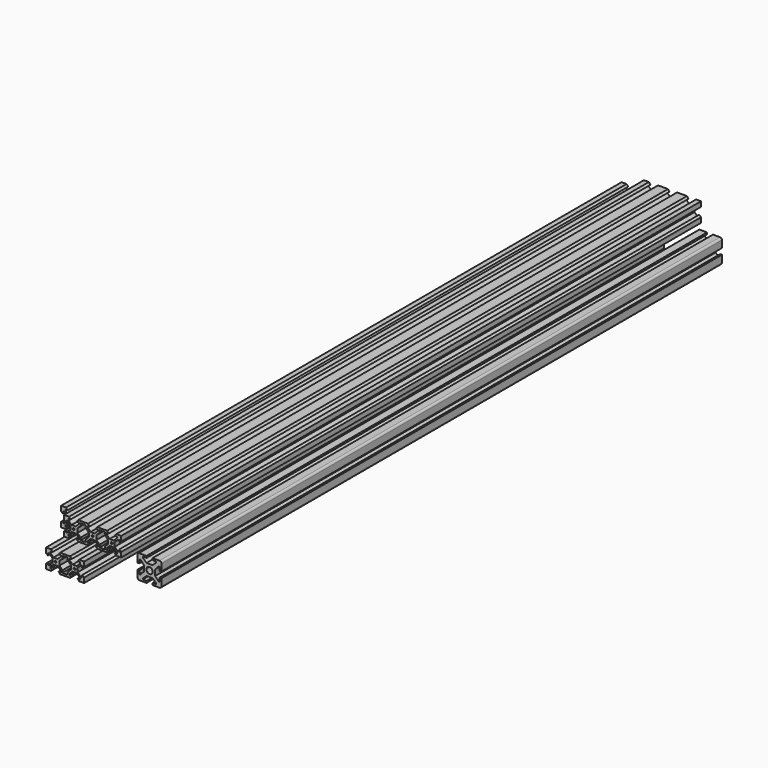
from build123d import *

# Parameters (mm, degrees)
F1_DEPTH = 736.6
F2_R     = 2
F3_R     = 0.95
F4_DEPTH = 736.6
F5_R     = 0.95
F6_DEPTH = 762
F7_R     = 0.95
F8_DEPTH = 762


with BuildPart() as f1:
    # F0 (on Front) → F1 (new body)
    with BuildSketch(Plane.XZ):
        Polygon((12.5, 3.109211), (12.5, 12.509211), (3.1, 12.509211), (3.1, 10.629211), (7.063925, 10.629211), (7.063925, 9.629211), (3.1, 6.01164), (0, 6.01164), (-3.1, 6.01164), (-7.063925, 9.629211), (-7.063925, 10.629211), (-3.1, 10.629211), (-3.1, 12.509211), (-12.5, 12.509211), (-12.5, 3.109211), (-10.62, 3.109211), (-10.62, 7.073137), (-9.62, 7.073137), (-6.002428, 3.109211), (-6.002428, 0.009211), (-6.002428, -3.090789), (-9.62, -7.054714), (-10.62, -7.054714), (-10.62, -3.090789), (-12.5, -3.090789), (-12.5, -12.490789), (-3.1, -12.490789), (-3.1, -10.610789), (-7.063925, -10.610789), (-7.063925, -9.610789), (-3.1, -5.993217), (0, -5.993217), (3.1, -5.993217), (7.063925, -9.610789), (7.063925, -10.610789), (3.1, -10.610789), (3.1, -12.490789), (12.5, -12.490789), (12.5, -3.090789), (10.62, -3.090789), (10.62, -7.054714), (9.62, -7.054714), (6.002428, -3.090789), (6.002428, 0.009211), (6.002428, 3.109211), (9.62, 7.073137), (10.62, 7.073137), (10.62, 3.109211), align=None)
        with BuildLine():
            ThreePointArc((2.333452, 2.342664), (3.048802, 1.272067), (3.3, 0.009211))
            ThreePointArc((3.3, 0.009211), (3.048802, -1.253644), (2.333452, -2.324241))
            ThreePointArc((2.333452, -2.324241), (1.262855, -3.039591), (0, -3.290789))
            ThreePointArc((0, -3.290789), (-1.262855, -3.039591), (-2.333452, -2.324241))
            ThreePointArc((-2.333452, -2.324241), (-3.048802, -1.253644), (-3.3, 0.009211))
            ThreePointArc((-3.3, 0.009211), (-3.048802, 1.272067), (-2.333452, 2.342664))
            ThreePointArc((-2.333452, 2.342664), (-1.262855, 3.058014), (0, 3.309211))
            ThreePointArc((0, 3.309211), (1.262855, 3.058014), (2.333452, 2.342664))
        make_face(mode=Mode.SUBTRACT)
    extrude(amount=F1_DEPTH)

    # F2
    f2_edges = [f1.edges().sort_by_distance(p)[0] for p in [
        (12.5, -368.3, -12.490789),
        (12.5, -368.3, 12.509211),
        (-12.5, -368.3, -12.490789),
        (-12.5, -368.3, 12.509211),
    ]]
    fillet(f2_edges, radius=F2_R)


with BuildPart() as f4:
    # F3 (on Front) → F4 (new body)
    with BuildSketch(Plane.XZ):
        Polygon((-52.982279, 24.560031), (-52.982279, 29.760031), (-58.182279, 29.76013), (-59.882317, 27.760163), (-57.535791, 27.760118), (-57.53582, 26.2248), (-60.777906, 22.982776), (-65.186911, 22.982861), (-68.428872, 26.225009), (-68.428843, 27.760327), (-66.082317, 27.760282), (-67.782279, 29.760314), (-72.982279, 29.760414), (-72.982478, 24.560414), (-70.982543, 22.860337), (-70.982453, 25.206863), (-69.447135, 25.206805), (-66.205174, 21.964656), (-66.205174, 17.555405), (-69.447135, 14.313257), (-70.982453, 14.313198), (-70.982543, 16.659724), (-72.982478, 14.959647), (-72.982279, 9.759647), (-67.782279, 9.759747), (-66.082317, 11.759779), (-68.428843, 11.759734), (-68.428872, 13.295052), (-65.186911, 16.5372), (-60.777906, 16.537285), (-57.53582, 13.295261), (-57.535791, 11.759943), (-59.882317, 11.759898), (-58.182279, 9.759931), (-52.982279, 9.760031), (-52.982279, 14.960031), (-54.982279, 16.660031), (-54.982279, 14.313505), (-56.517596, 14.313505), (-59.759682, 17.555528), (-59.759682, 21.964533), (-56.517596, 25.206557), (-54.982279, 25.206557), (-54.982279, 22.860031), align=None)
        with Locations((-62.982279, 19.760222)):
            Circle(F3_R, mode=Mode.SUBTRACT)
    extrude(amount=F4_DEPTH)


with BuildPart() as f6:
    # F5 (on Front) → F6 (new body)
    with BuildSketch(Plane.XZ):
        Polygon((-55.323982, 0.933651), (-52.977456, 0.933606), (-52.977486, -0.601712), (-56.219572, -3.843735), (-60.628576, -3.843651), (-63.870537, -0.601503), (-63.870508, 0.933815), (-61.523982, 0.93377), (-63.223944, 2.933803), (-68.423944, 2.933903), (-68.424143, -2.266097), (-66.424208, -3.966174), (-66.424118, -1.619648), (-64.8888, -1.619707), (-61.646839, -4.861855), (-61.646839, -9.271107), (-64.8888, -12.513255), (-66.424118, -12.513314), (-66.424208, -10.166788), (-68.424143, -11.866865), (-68.423944, -17.066865), (-63.223944, -17.066765), (-61.523982, -15.066732), (-63.870508, -15.066777), (-63.870537, -13.531459), (-60.628576, -10.289311), (-56.219572, -10.289227), (-52.977486, -13.53125), (-52.977456, -15.066568), (-55.323982, -15.066613), (-53.623944, -17.066581), (-43.223944, -17.066581), (-41.523905, -15.066613), (-43.870431, -15.066568), (-43.870402, -13.53125), (-40.628316, -10.289227), (-36.219312, -10.289311), (-32.97735, -13.531459), (-32.977379, -15.066777), (-35.323905, -15.066732), (-33.623944, -17.066765), (-28.423944, -17.066865), (-28.423744, -11.866865), (-30.423679, -10.166788), (-30.423769, -12.513314), (-31.959087, -12.513255), (-35.201048, -9.271107), (-35.201048, -4.861855), (-31.959087, -1.619707), (-30.423769, -1.619648), (-30.423679, -3.966174), (-28.423744, -2.266097), (-28.423944, 2.933903), (-33.623944, 2.933803), (-35.323905, 0.93377), (-32.977379, 0.933815), (-32.97735, -0.601503), (-36.219312, -3.843651), (-40.628316, -3.843735), (-43.870402, -0.601712), (-43.870431, 0.933606), (-41.523905, 0.933651), (-43.223944, 2.933619), (-53.623944, 2.933619), align=None)
        Polygon((-54.41603, -4.861979), (-51.173944, -1.619955), (-51.173944, 0.933606), (-45.673944, 0.933606), (-45.673944, -1.619955), (-42.431858, -4.861979), (-42.431858, -9.270983), (-45.673944, -12.513007), (-45.673944, -15.066568), (-51.173944, -15.066568), (-51.173944, -12.513007), (-54.41603, -9.270983), align=None, mode=Mode.SUBTRACT)
        with Locations((-58.423944, -7.066289)):
            Circle(F5_R, mode=Mode.SUBTRACT)
        with Locations((-38.423944, -7.066289)):
            Circle(F5_R, mode=Mode.SUBTRACT)
    extrude(amount=F6_DEPTH)


with BuildPart() as f8:
    # F7 (on Front) → F8 (new body)
    with BuildSketch(Plane.XZ):
        Polygon((-31.371603, 17.261043), (-29.025077, 17.260998), (-29.025106, 15.72568), (-32.267192, 12.483656), (-34.471694, 12.483699), (-36.676196, 12.483656), (-39.918282, 15.72568), (-39.918312, 17.260998), (-37.571786, 17.261043), (-39.271824, 19.261011), (-49.671824, 19.261011), (-51.371863, 17.261043), (-49.025337, 17.260998), (-49.025366, 15.72568), (-52.267452, 12.483656), (-56.676456, 12.483741), (-59.918418, 15.725889), (-59.918389, 17.261207), (-57.571863, 17.261162), (-59.271824, 19.261195), (-64.471824, 19.261294), (-64.472024, 14.061294), (-62.472089, 12.361218), (-62.471999, 14.707744), (-60.936681, 14.707685), (-57.694719, 11.465537), (-57.694719, 7.056285), (-60.936681, 3.814137), (-62.471999, 3.814078), (-62.472089, 6.160604), (-64.472024, 4.460527), (-64.471824, -0.739473), (-59.271824, -0.739373), (-57.571863, 1.26066), (-59.918389, 1.260615), (-59.918418, 2.795932), (-56.676456, 6.038081), (-52.267452, 6.038165), (-49.025366, 2.796141), (-49.025337, 1.260823), (-51.371863, 1.260778), (-49.671824, -0.739189), (-39.271824, -0.739189), (-37.571786, 1.260778), (-39.918312, 1.260823), (-39.918282, 2.796141), (-36.676196, 6.038165), (-34.471694, 6.038123), (-32.267192, 6.038165), (-29.025106, 2.796141), (-29.025077, 1.260823), (-31.371603, 1.260778), (-29.671564, -0.739189), (-19.271564, -0.739189), (-17.571526, 1.260778), (-19.918052, 1.260823), (-19.918022, 2.796141), (-16.675936, 6.038165), (-12.266932, 6.038081), (-9.02497, 2.795932), (-9.025, 1.260615), (-11.371526, 1.26066), (-9.671564, -0.739373), (-4.471564, -0.739473), (-4.471365, 4.460527), (-6.4713, 6.160604), (-6.47139, 3.814078), (-8.006707, 3.814137), (-11.248669, 7.056285), (-11.248669, 11.465537), (-8.006707, 14.707685), (-6.47139, 14.707744), (-6.4713, 12.361218), (-4.471365, 14.061294), (-4.471564, 19.261294), (-9.671564, 19.261195), (-11.371526, 17.261162), (-9.025, 17.261207), (-9.02497, 15.725889), (-12.266932, 12.483741), (-16.675936, 12.483656), (-19.918022, 15.72568), (-19.918052, 17.260998), (-17.571526, 17.261043), (-19.271564, 19.261011), (-29.671564, 19.261011), align=None)
        Polygon((-38.471824, 7.056409), (-41.721824, 3.814385), (-41.721824, 1.260823), (-47.221824, 1.260823), (-47.221824, 3.814385), (-50.471824, 7.056409), (-50.471824, 11.465413), (-47.221824, 14.707437), (-47.221824, 17.260998), (-41.721824, 17.260998), (-41.721824, 14.707437), (-38.471824, 11.465413), align=None, mode=Mode.SUBTRACT)
        Polygon((-30.471564, 11.465413), (-27.221564, 14.707437), (-27.221564, 17.260998), (-21.721564, 17.260998), (-21.721564, 14.707437), (-18.471564, 11.465413), (-18.471564, 7.056409), (-21.721564, 3.814385), (-21.721564, 1.260823), (-27.221564, 1.260823), (-27.221564, 3.814385), (-30.471564, 7.056409), align=None, mode=Mode.SUBTRACT)
        with Locations((-54.471824, 9.261103)):
            Circle(F7_R, mode=Mode.SUBTRACT)
        with BuildLine():
            ThreePointArc((-34.471694, 8.311103), (-35.421694, 9.261103), (-34.471694, 10.211103))
            ThreePointArc((-34.471694, 10.211103), (-33.521694, 9.261103), (-34.471694, 8.311103))
        make_face(mode=Mode.SUBTRACT)
        with Locations((-14.471564, 9.261103)):
            Circle(F7_R, mode=Mode.SUBTRACT)
    extrude(amount=F8_DEPTH)


with BuildPart() as f1_1:
    # F9: moved
    add(f1.part.moved(Location((20, 0, 0))))


with BuildPart() as f8_1:
    # F10: moved
    add(f8.part.moved(Location((15, 0, 20))))


solid = Compound([f4.part, f6.part, f1_1.part, f8_1.part])
